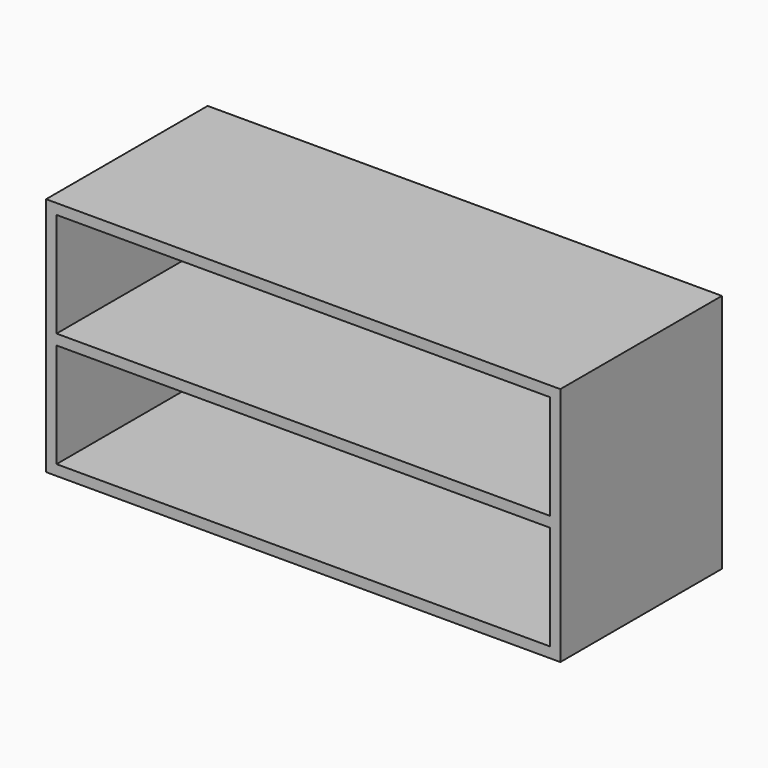
from build123d import *

# Parameters (mm, degrees)
F0_W     = 886
F0_H     = 414
F0_W_2   = 850
F0_H_2   = 180
F1_DEPTH = 330
F2_W     = 886
F2_H     = 414
F3_DEPTH = 18


with BuildPart() as f1:
    # F0 (on Front) → F1 (new body)
    with BuildSketch(Plane.XZ):
        Rectangle(F0_W, F0_H)
        with Locations((0, -99)):
            Rectangle(F0_W_2, F0_H_2, mode=Mode.SUBTRACT)
        with Locations((0, 99)):
            Rectangle(F0_W_2, F0_H_2, mode=Mode.SUBTRACT)
    extrude(amount=F1_DEPTH)

    # F2 (on face) → F3 (join)
    with BuildSketch(Plane(origin=(0, 0, 0), x_dir=(-1, 0, 0), z_dir=(0, 1, 0))):
        Rectangle(F2_W, F2_H)
    extrude(amount=F3_DEPTH)


solid = f1.part
